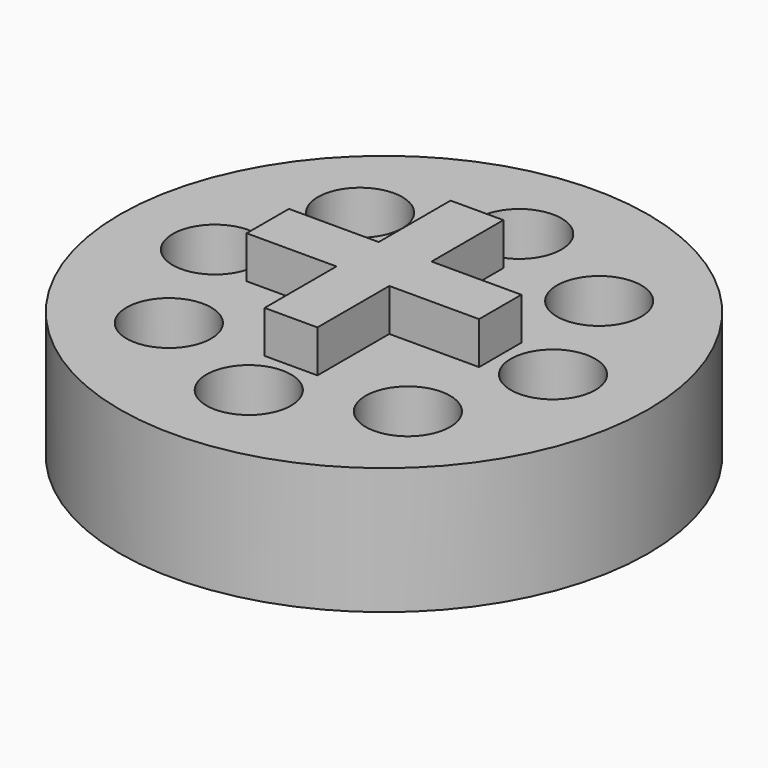
from build123d import *

# Parameters (mm, degrees)
F0_R     = 12.5
F1_DEPTH = 3
F2_R     = 1
F3_DEPTH = 12.5
F4_R     = 2
F4_R_2   = 1
F5_DEPTH = 4
F7_DEPTH = 2


with BuildPart() as f1:
    # F0 (on Top) → F1 (new body, symmetric)
    with BuildSketch(Plane.XY):
        Circle(F0_R)
    extrude(amount=F1_DEPTH, both=True)

    # F2 (on Top) → F3 (cut, symmetric)
    with BuildSketch(Plane.XY):
        with Locations((0, -8)):
            Circle(F2_R)
        with Locations((-5.6568542495, -5.6568542495)):
            Circle(F2_R)
        with Locations((-8, 0)):
            Circle(F2_R)
        with Locations((-5.6568542495, 5.6568542495)):
            Circle(F2_R)
        with Locations((0, 8)):
            Circle(F2_R)
        with Locations((5.6568542495, 5.6568542495)):
            Circle(F2_R)
        with Locations((8, 0)):
            Circle(F2_R)
        with Locations((5.6568542495, -5.6568542495)):
            Circle(F2_R)
    extrude(amount=F3_DEPTH, both=True, mode=Mode.SUBTRACT)

    # F4 (on face) → F5 (cut)
    with BuildSketch(Plane.XY.offset(3)):
        with Locations((-5.6568542495, 5.6568542495)):
            Circle(F4_R)
        with Locations((-5.6568542495, 5.6568542495)):
            Circle(F4_R_2, mode=Mode.SUBTRACT)
        with Locations((-8, 0)):
            Circle(F4_R)
        with Locations((-8, 0)):
            Circle(F4_R_2, mode=Mode.SUBTRACT)
        with Locations((0, 8)):
            Circle(F4_R)
        with Locations((0, 8)):
            Circle(F4_R_2, mode=Mode.SUBTRACT)
        with Locations((8, 0)):
            Circle(F4_R)
        with Locations((8, 0)):
            Circle(F4_R_2, mode=Mode.SUBTRACT)
        with Locations((5.6568542495, 5.6568542495)):
            Circle(F4_R)
        with Locations((5.6568542495, 5.6568542495)):
            Circle(F4_R_2, mode=Mode.SUBTRACT)
        with Locations((5.6568542495, -5.6568542495)):
            Circle(F4_R)
        with Locations((5.6568542495, -5.6568542495)):
            Circle(F4_R_2, mode=Mode.SUBTRACT)
        with Locations((0, -8)):
            Circle(F4_R)
        with Locations((0, -8)):
            Circle(F4_R_2, mode=Mode.SUBTRACT)
        with Locations((-5.6568542495, -5.6568542495)):
            Circle(F4_R)
        with Locations((-5.6568542495, -5.6568542495)):
            Circle(F4_R_2, mode=Mode.SUBTRACT)
    extrude(amount=-F5_DEPTH, mode=Mode.SUBTRACT)

    # F6 (on face) → F7 (join)
    with BuildSketch(Plane.XY.offset(3)):
        Polygon((-0.2840909091, 1.25), (-1.25, 5.5), (-1.25, 1.25), align=None)
        Polygon((1.25, 5.5), (-1.25, 5.5), (-0.2840909091, 1.25), (1.25, 1.25), align=None)
        Polygon((-0.2840909091, 1.25), (-1.25, 1.25), (-1.25, -0.2840909091), (0, 0), align=None)
        Polygon((-1.25, -0.2840909091), (-1.25, 1.25), (-5.5, 1.25), (-5.5, -1.25), align=None)
        Polygon((1.25, 1.25), (-0.2840909091, 1.25), (0, 0), (1.25, 0.2840909091), align=None)
        Polygon((5.5, 1.25), (1.25, 1.25), (1.25, 0.2840909091), align=None)
        Polygon((0, 0), (-1.25, -0.2840909091), (-1.25, -1.25), (0.2840909091, -1.25), align=None)
        Polygon((-1.25, -1.25), (-1.25, -0.2840909091), (-5.5, -1.25), align=None)
        Polygon((1.25, 0.2840909091), (0, 0), (0.2840909091, -1.25), (1.25, -1.25), align=None)
        Polygon((5.5, 1.25), (1.25, 0.2840909091), (1.25, -1.25), (5.5, -1.25), align=None)
        Polygon((0.2840909091, -1.25), (-1.25, -1.25), (-1.25, -5.5), (1.25, -5.5), align=None)
        Polygon((1.25, -1.25), (0.2840909091, -1.25), (1.25, -5.5), align=None)
    extrude(amount=F7_DEPTH)


solid = f1.part
